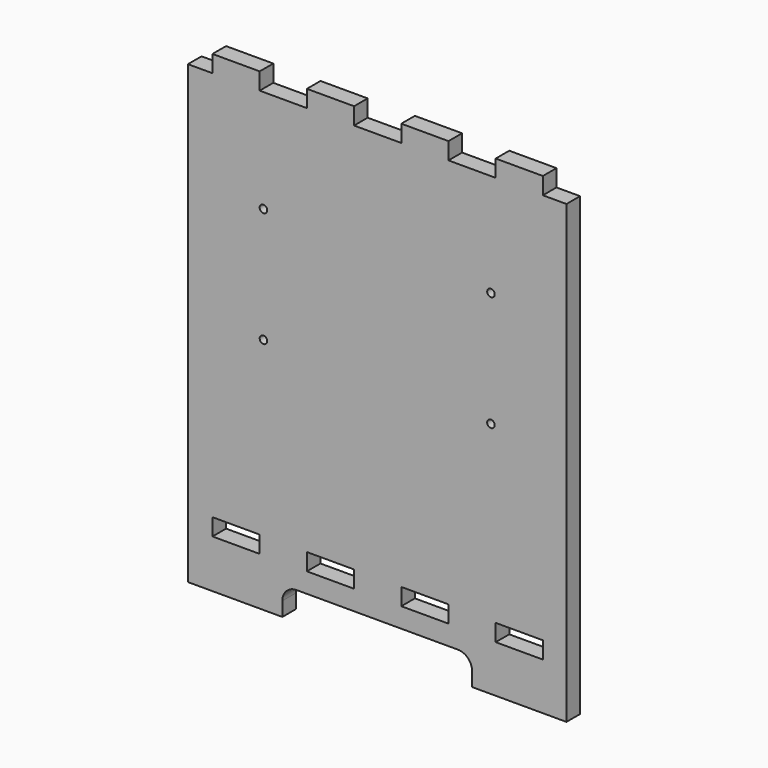
from build123d import *

# Parameters (mm, degrees)
F0_W     = 50
F0_H     = 18
F1_DEPTH = 18
F2_R     = 4
F3_DEPTH = 14


with BuildPart() as f1:
    # F0 (on Front) → F1 (new body)
    with BuildSketch(Plane.XZ):
        with BuildLine():
            Line((-190.566614, -18), (-90.566614, -18))
            Line((-90.566614, -18), (-90.566614, -3))
            ThreePointArc((-90.566614, -3), (-86.173216, 7.606602), (-75.566614, 12))
            Line((-75.566614, 12), (95.433386, 12))
            ThreePointArc((95.433386, 12), (106.039988, 7.606602), (110.433386, -3))
            Line((110.433386, -3), (110.433386, -18))
            Line((110.433386, -18), (210.433386, -18))
            Line((210.433386, -18), (210.433386, 465))
            Line((210.433386, 465), (185.433386, 465))
            Line((185.433386, 465), (185.433386, 483))
            Line((185.433386, 483), (135.433386, 483))
            Line((135.433386, 483), (135.433386, 465))
            Line((135.433386, 465), (85.433386, 465))
            Line((85.433386, 465), (85.433386, 483))
            Line((85.433386, 483), (35.433386, 483))
            Line((35.433386, 483), (35.433386, 465))
            Line((35.433386, 465), (-14.566614, 465))
            Line((-14.566614, 465), (-14.566614, 483))
            Line((-14.566614, 483), (-64.566614, 483))
            Line((-64.566614, 483), (-64.566614, 465))
            Line((-64.566614, 465), (-114.566614, 465))
            Line((-114.566614, 465), (-114.566614, 483))
            Line((-114.566614, 483), (-164.566614, 483))
            Line((-164.566614, 483), (-164.566614, 465))
            Line((-164.566614, 465), (-190.566614, 465))
            Line((-190.566614, 465), (-190.566614, -18))
        make_face()
        with Locations((-139.566614, 42)):
            Rectangle(F0_W, F0_H, mode=Mode.SUBTRACT)
        with Locations((-39.566614, 42)):
            Rectangle(F0_W, F0_H, mode=Mode.SUBTRACT)
        with Locations((60.433386, 42)):
            Rectangle(F0_W, F0_H, mode=Mode.SUBTRACT)
        with Locations((160.433386, 41)):
            Rectangle(F0_W, F0_H, mode=Mode.SUBTRACT)
    extrude(amount=F1_DEPTH)

    # F2 (on face) → F3 (cut)
    with BuildSketch(Plane.XZ.offset(18)):
        with Locations((130.433386, 234)):
            Circle(F2_R)
        with Locations((-110.566614, 356)):
            Circle(F2_R)
        with Locations((-110.566614, 234)):
            Circle(F2_R)
        with Locations((130.433386, 356)):
            Circle(F2_R)
    extrude(amount=-F3_DEPTH, mode=Mode.SUBTRACT)


solid = f1.part
